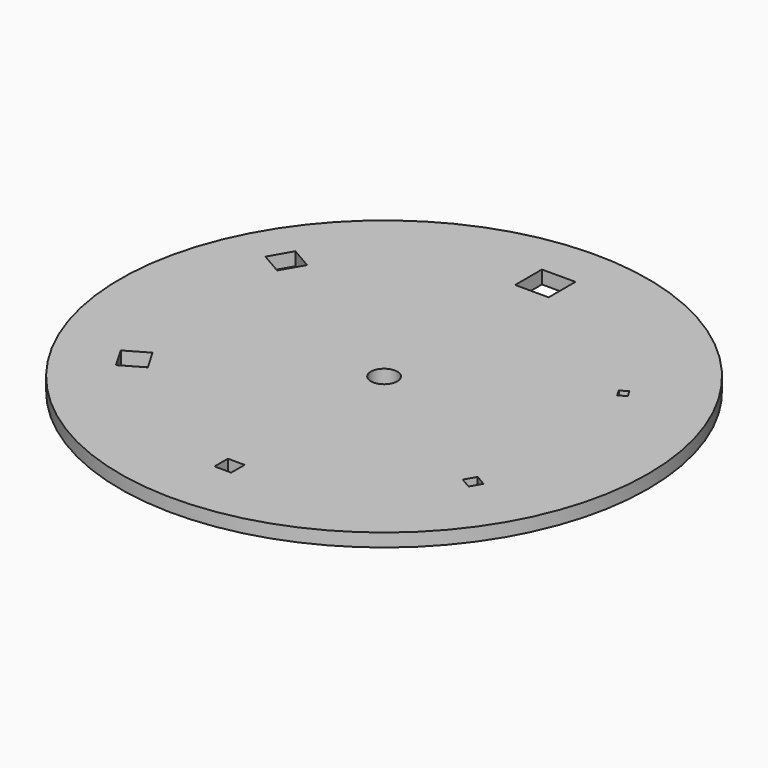
from build123d import *

# Parameters (mm, degrees)
F0_R     = 200
F0_W     = 12.7
F0_H     = 12.7
F0_R_2   = 10
F0_W_2   = 25.4
F0_H_2   = 25.4
F1_DEPTH = 10
F2_R     = 25
F2_R_2   = 10
F3_DEPTH = 10


with BuildPart() as f1:
    # F0 (on Top) → F1 (new body)
    with BuildSketch(Plane.XY):
        Circle(F0_R)
        Polygon((-132.97884, -87.773892), (-142.50384, -71.276108), (-126.006057, -61.751108), (-116.481057, -78.248892), align=None, mode=Mode.SUBTRACT)
        with Locations((0, -146.35)):
            Rectangle(F0_W, F0_H, mode=Mode.SUBTRACT)
        Polygon((118.862307, -74.124446), (123.624807, -65.875554), (131.873699, -70.638054), (127.111199, -78.886946), align=None, mode=Mode.SUBTRACT)
        Polygon((-134.254949, 66.513608), (-150.752732, 76.038608), (-141.227732, 92.536392), (-124.729949, 83.011392), align=None, mode=Mode.SUBTRACT)
        Circle(F0_R_2, mode=Mode.SUBTRACT)
        Polygon((122.831057, 67.250369), (119.656057, 72.749631), (125.155318, 75.924631), (128.330318, 70.425369), align=None, mode=Mode.SUBTRACT)
        with Locations((0, 152.7)):
            Rectangle(F0_W_2, F0_H_2, mode=Mode.SUBTRACT)
    extrude(amount=F1_DEPTH)

    # F2 (on face) → F3 (join)
    with BuildSketch(Plane(origin=(0, 0, 0), x_dir=(1, 0, 0), z_dir=(0, 0, -1))):
        Circle(F2_R)
        Circle(F2_R_2, mode=Mode.SUBTRACT)
    extrude(amount=F3_DEPTH)


solid = f1.part
